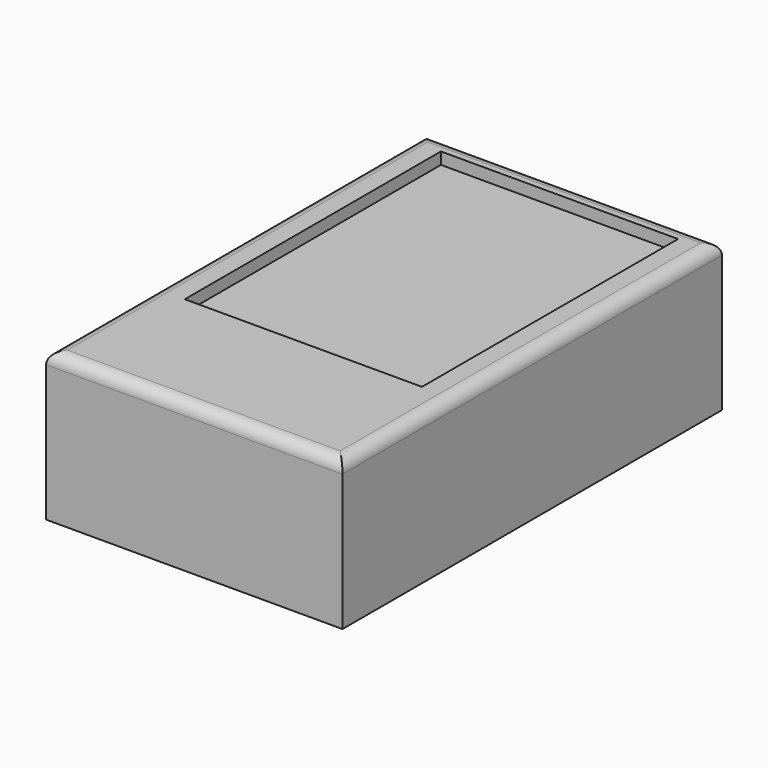
from build123d import *

# Parameters (mm, degrees)
F0_W     = 63.5
F0_H     = 101.6
F1_DEPTH = 31.75
F2_R     = 2.54
F3_W     = 50.8
F3_H     = 68.58
F4_DEPTH = 2.54


with BuildPart() as f1:
    # F0 (on Top) → F1 (new body)
    with BuildSketch(Plane.XY):
        Rectangle(F0_W, F0_H)
    extrude(amount=F1_DEPTH)

    # F2
    f2_edges = [f1.edges().sort_by_distance(p)[0] for p in [
        (0, 50.8, 31.75),
        (-31.75, 0, 31.75),
        (31.75, 0, 31.75),
        (0, -50.8, 31.75),
    ]]
    fillet(f2_edges, radius=F2_R)

    # F3 (on face) → F4 (cut)
    with BuildSketch(Plane.XY.offset(31.75)):
        with Locations((0, 12.7)):
            Rectangle(F3_W, F3_H)
    extrude(amount=-F4_DEPTH, mode=Mode.SUBTRACT)


solid = f1.part
